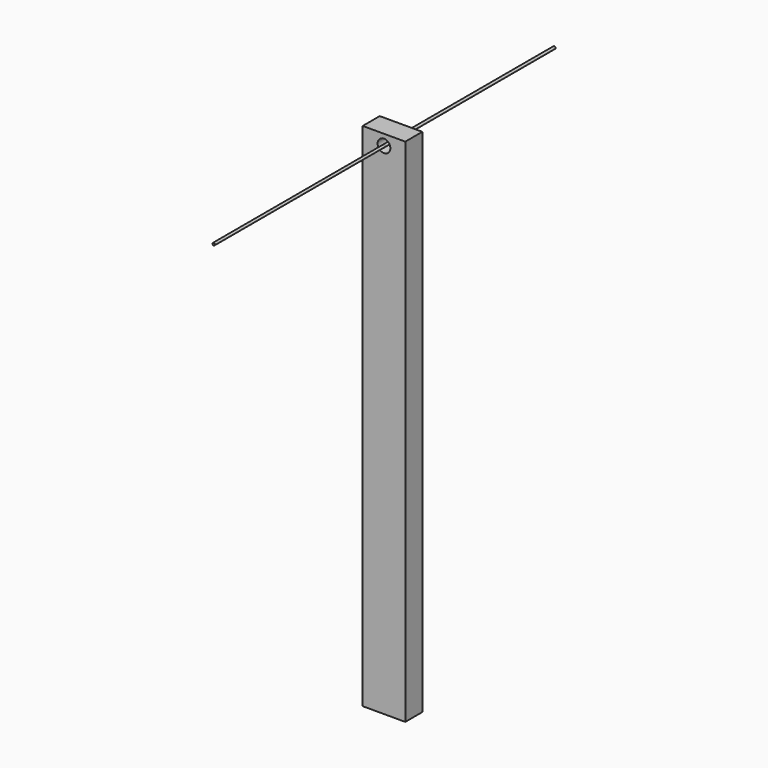
from build123d import *

# Parameters (mm, degrees)
F0_W     = 25.4
F0_H     = 304.8
F1_DEPTH = 12.7
F2_R     = 3.81
F3_DEPTH = 25.4
F4_R     = 0.720809
F5_DEPTH = 127
F6_R     = 0.744764
F6_R_2   = 0.720809
F7_DEPTH = 127


with BuildPart() as f1:
    # F0 (on Front) → F1 (new body)
    with BuildSketch(Plane.XZ):
        with Locations((-35.271831, 66.466231)):
            Rectangle(F0_W, F0_H)
    extrude(amount=F1_DEPTH)

    # F2 (on face) → F3 (cut)
    with BuildSketch(Plane.XZ.offset(12.7)):
        with Locations((-35.271831, 212.516231)):
            Circle(F2_R)
    extrude(amount=-F3_DEPTH, mode=Mode.SUBTRACT)


with BuildPart() as f5:
    # F4 (on face) → F5 (new body)
    with BuildSketch(Plane.XZ.offset(12.7)):
        with Locations((-35.271831, 212.516231)):
            Circle(F4_R)
    extrude(amount=F5_DEPTH)

    # F6 (on face) → F7 (join)
    with BuildSketch(Plane(origin=(0, -12.7, 0), x_dir=(-1, 0, 0), z_dir=(0, 1, 0))):
        with Locations((35.271831, 212.516231)):
            Circle(F6_R)
        with Locations((35.271831, 212.516231)):
            Circle(F6_R_2, mode=Mode.SUBTRACT)
    extrude(amount=F7_DEPTH)


solid = Compound([f1.part, f5.part])
